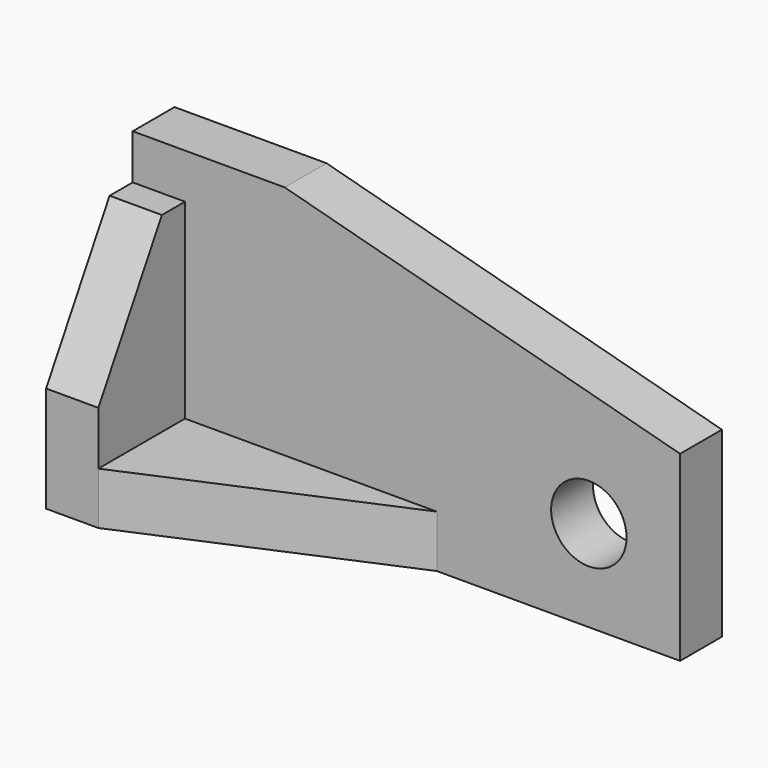
from build123d import *

# Parameters (mm, degrees)
F0_R     = 7.874
F1_DEPTH = 10.922
F0_W     = 52.578
F0_H     = 10.922
F2_DEPTH = 33.528
F3_SIZE2 = 16.571107
F3_SIZE  = 28.702
F5_DEPTH = 25.4


with BuildPart() as f1:
    # F0 (on Front) → F1 (new body)
    with BuildSketch(Plane.XZ):
        Polygon((-63.5, 27.104102), (-63.5, 17.706102), (-52.578, 17.706102), (-52.578, -22.171898), (0, -22.171898), (0, -33.093898), (50.8, -33.093898), (50.8, 4.984896), (-31.75, 27.104102), align=None)
        with Locations((31.75, -14.043898)):
            Circle(F0_R, mode=Mode.SUBTRACT)
    extrude(amount=F1_DEPTH)

    # F0 (on Front) → F2 (join)
    with BuildSketch(Plane.XZ):
        Polygon((-63.5, 17.706102), (-63.5, -33.093898), (-52.578, -33.093898), (-52.578, -22.171898), (-52.578, 17.706102), align=None)
        with Locations((-26.289, -27.632898)):
            Rectangle(F0_W, F0_H)
    extrude(amount=F2_DEPTH)

    # F3
    f3_edges = [f1.edges().sort_by_distance(p)[0] for p in [
        (-58.039, -33.528, 17.706102),
    ]]
    chamfer(f3_edges, length=F3_SIZE, length2=F3_SIZE2)

    # F4 (on face) → F5 (cut)
    with BuildSketch(Plane.XY.offset(-22.171898)):
        Polygon((0, -10.922), (-52.578, -33.528), (0, -33.528), align=None)
    extrude(amount=-F5_DEPTH, mode=Mode.SUBTRACT)


solid = f1.part
